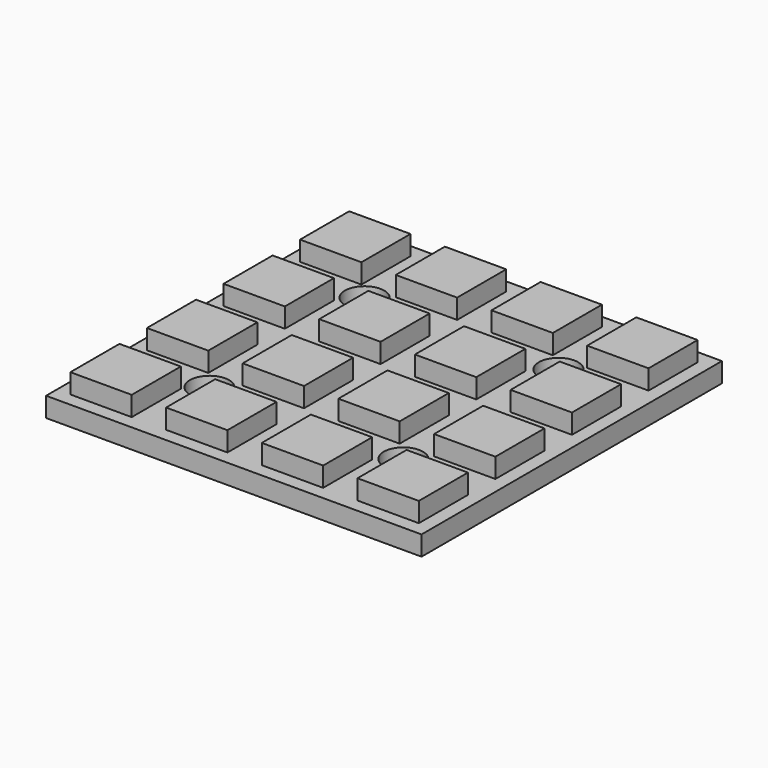
from build123d import *

# Parameters (mm, degrees)
SKETCH_W                        = 30.6
SKETCH_H                        = 30.6
SKETCH_R                        = 1.6
PAD_DEPTH                       = 1.6
SKETCH004_W                     = 28
SKETCH004_H                     = 28
SKETCH004_R                     = 2
PAD004_DEPTH                    = 0.2
SKETCH005_W                     = 3.5
SKETCH005_H                     = 1.8
PAD005_DEPTH                    = 0.8
SKETCH005_LINEARPATTERN003_2_W  = 3.5
SKETCH005_LINEARPATTERN003_2_H  = 1.8
PAD005_LINEARPATTERN003_2_DEPTH = 0.8
SKETCH005_LINEARPATTERN003_3_W  = 3.5
SKETCH005_LINEARPATTERN003_3_H  = 1.8
PAD005_LINEARPATTERN003_3_DEPTH = 0.8
SKETCH005_LINEARPATTERN003_4_W  = 3.5
SKETCH005_LINEARPATTERN003_4_H  = 1.8
PAD005_LINEARPATTERN003_4_DEPTH = 0.8
SKETCH008_W                     = 25
SKETCH008_H                     = 25
SKETCH008_R                     = 2
PAD007_DEPTH                    = 0.5
SKETCH009_W                     = 5
SKETCH009_H                     = 5
PAD008_DEPTH                    = 2.6
SKETCH009_LINEARPATTERN008_2_W  = 5
SKETCH009_LINEARPATTERN008_2_H  = 5
PAD008_LINEARPATTERN008_2_DEPTH = 2.6
SKETCH009_LINEARPATTERN008_3_W  = 5
SKETCH009_LINEARPATTERN008_3_H  = 5
PAD008_LINEARPATTERN008_3_DEPTH = 2.6
SKETCH009_LINEARPATTERN008_4_W  = 5
SKETCH009_LINEARPATTERN008_4_H  = 5
PAD008_LINEARPATTERN008_4_DEPTH = 2.6
LINEARPATTERN007_COUNT          = 4
LINEARPATTERN007_PITCH          = 7.8


with BuildPart() as pcb:
    # Sketch → Pad (new body)
    with BuildSketch(Plane.XY):
        Rectangle(SKETCH_W, SKETCH_H)
        with Locations((-7.9, 7.9)):
            Circle(SKETCH_R, mode=Mode.SUBTRACT)
        with Locations((7.9, 7.9)):
            Circle(SKETCH_R, mode=Mode.SUBTRACT)
        with Locations((7.9, -7.9)):
            Circle(SKETCH_R, mode=Mode.SUBTRACT)
        with Locations((-7.9, -7.9)):
            Circle(SKETCH_R, mode=Mode.SUBTRACT)
    extrude(amount=PAD_DEPTH)


with BuildPart() as electrical:
    # Sketch004 → Pad004 (new body)
    with BuildSketch(Plane.XY.offset(0.5)):
        Rectangle(SKETCH004_W, SKETCH004_H)
        with Locations((-7.9, 7.9)):
            Circle(SKETCH004_R, mode=Mode.SUBTRACT)
        with Locations((7.9, 7.9)):
            Circle(SKETCH004_R, mode=Mode.SUBTRACT)
        with Locations((7.9, -7.9)):
            Circle(SKETCH004_R, mode=Mode.SUBTRACT)
        with Locations((-7.9, -7.9)):
            Circle(SKETCH004_R, mode=Mode.SUBTRACT)
    extrude(amount=PAD004_DEPTH)

    # Sketch005 → Pad005 (join)
    with BuildSketch(Plane.XY.offset(-0.2)):
        with Locations((-12.85, -3.8)):
            Rectangle(SKETCH005_W, SKETCH005_H)
    pad005 = extrude(amount=PAD005_DEPTH)

    # Sketch005 LinearPattern003 2 → Pad005 LinearPattern003 2 (add)
    with BuildSketch(Plane(origin=(0, 2.533333, -0.2), x_dir=(1, 0, 0), z_dir=(0, 0, 1))):
        with Locations((-12.85, -3.8)):
            Rectangle(SKETCH005_LINEARPATTERN003_2_W, SKETCH005_LINEARPATTERN003_2_H)
    pad005_linearpattern003_2 = extrude(amount=PAD005_LINEARPATTERN003_2_DEPTH)

    # Sketch005 LinearPattern003 3 → Pad005 LinearPattern003 3 (add)
    with BuildSketch(Plane(origin=(0, 5.066667, -0.2), x_dir=(1, 0, 0), z_dir=(0, 0, 1))):
        with Locations((-12.85, -3.8)):
            Rectangle(SKETCH005_LINEARPATTERN003_3_W, SKETCH005_LINEARPATTERN003_3_H)
    pad005_linearpattern003_3 = extrude(amount=PAD005_LINEARPATTERN003_3_DEPTH)

    # Sketch005 LinearPattern003 4 → Pad005 LinearPattern003 4 (add)
    with BuildSketch(Plane(origin=(0, 7.6, -0.2), x_dir=(1, 0, 0), z_dir=(0, 0, 1))):
        with Locations((-12.85, -3.8)):
            Rectangle(SKETCH005_LINEARPATTERN003_4_W, SKETCH005_LINEARPATTERN003_4_H)
    pad005_linearpattern003_4 = extrude(amount=PAD005_LINEARPATTERN003_4_DEPTH)

    # Mirrored001: Pad005, Pad005 LinearPattern003 2, Pad005 LinearPattern003 3, Pad005 LinearPattern003 4 across YZ
    add(pad005.mirror(Plane.YZ))
    add(pad005_linearpattern003_2.mirror(Plane.YZ))
    add(pad005_linearpattern003_3.mirror(Plane.YZ))
    add(pad005_linearpattern003_4.mirror(Plane.YZ))


with BuildPart() as leds:
    # Sketch008 → Pad007 (new body)
    with BuildSketch(Plane.XY.offset(0.5)):
        Rectangle(SKETCH008_W, SKETCH008_H)
        with Locations((-7.9, 7.9)):
            Circle(SKETCH008_R, mode=Mode.SUBTRACT)
        with Locations((7.9, 7.9)):
            Circle(SKETCH008_R, mode=Mode.SUBTRACT)
        with Locations((7.9, -7.9)):
            Circle(SKETCH008_R, mode=Mode.SUBTRACT)
        with Locations((-7.9, -7.9)):
            Circle(SKETCH008_R, mode=Mode.SUBTRACT)
    extrude(amount=PAD007_DEPTH)

    # Sketch009 → Pad008 (join)
    with BuildSketch(Plane.XY.offset(3.2)):
        with Locations((-11.7, -11.7)):
            Rectangle(SKETCH009_W, SKETCH009_H)
    pad008 = extrude(amount=-PAD008_DEPTH)

    # Sketch009 LinearPattern008 2 → Pad008 LinearPattern008 2 (add)
    with BuildSketch(Plane(origin=(7.8, 0, 3.2), x_dir=(1, 0, 0), z_dir=(0, 0, 1))):
        with Locations((-11.7, -11.7)):
            Rectangle(SKETCH009_LINEARPATTERN008_2_W, SKETCH009_LINEARPATTERN008_2_H)
    pad008_linearpattern008_2 = extrude(amount=-PAD008_LINEARPATTERN008_2_DEPTH)

    # Sketch009 LinearPattern008 3 → Pad008 LinearPattern008 3 (add)
    with BuildSketch(Plane(origin=(15.6, 0, 3.2), x_dir=(1, 0, 0), z_dir=(0, 0, 1))):
        with Locations((-11.7, -11.7)):
            Rectangle(SKETCH009_LINEARPATTERN008_3_W, SKETCH009_LINEARPATTERN008_3_H)
    pad008_linearpattern008_3 = extrude(amount=-PAD008_LINEARPATTERN008_3_DEPTH)

    # Sketch009 LinearPattern008 4 → Pad008 LinearPattern008 4 (add)
    with BuildSketch(Plane(origin=(23.4, 0, 3.2), x_dir=(1, 0, 0), z_dir=(0, 0, 1))):
        with Locations((-11.7, -11.7)):
            Rectangle(SKETCH009_LINEARPATTERN008_4_W, SKETCH009_LINEARPATTERN008_4_H)
    pad008_linearpattern008_4 = extrude(amount=-PAD008_LINEARPATTERN008_4_DEPTH)

    # LinearPattern007: Pad008, Pad008 LinearPattern008 2, Pad008 LinearPattern008 3, Pad008 LinearPattern008 4 ×4
    with Locations(*[(0, i * LINEARPATTERN007_PITCH, 0) for i in range(1, LINEARPATTERN007_COUNT)]):
        add(pad008)
        add(pad008_linearpattern008_2)
        add(pad008_linearpattern008_3)
        add(pad008_linearpattern008_4)


solid = Compound([pcb.part, electrical.part, leds.part])
